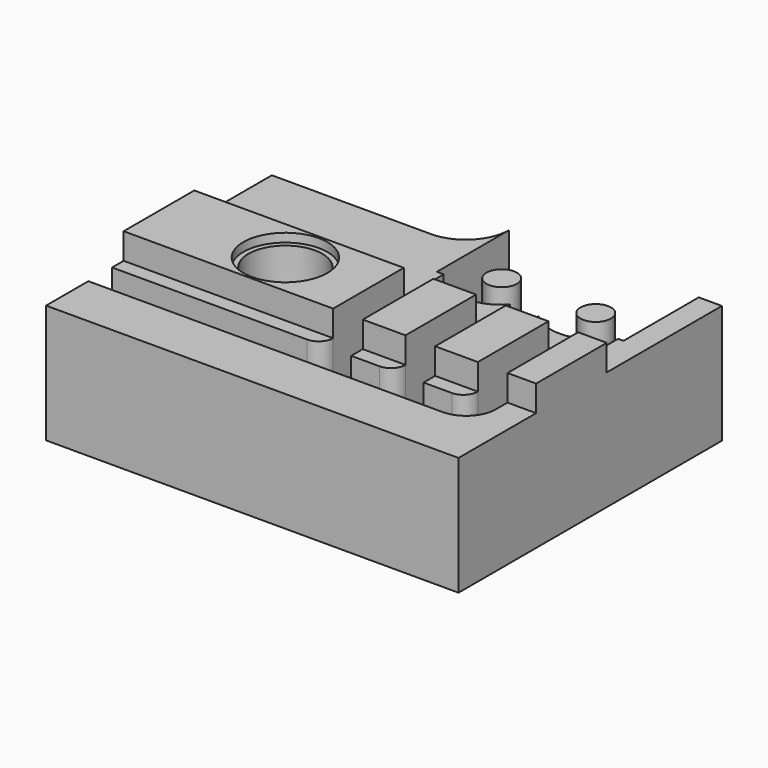
from build123d import *

# Parameters (mm, degrees)
PAD004_DEPTH    = 8.2
SKETCH014_W     = 28.5
SKETCH014_H     = 6.1
PAD005_DEPTH    = 1.8
SKETCH015_R     = 2.9
POCKET004_DEPTH = 0.6
SKETCH016_W     = 2.05
SKETCH016_H     = 6.1
POCKET005_DEPTH = 1.8
SKETCH018_R     = 1.05
POCKET007_DEPTH = 6
POCKET006_DEPTH = 4
SKETCH019_R     = 2.55
POCKET008_DEPTH = 7.5
SKETCH020_R     = 7
POCKET_DEPTH    = 3


with BuildPart() as stage_1_railguide:
    # Sketch013 → Pad004 (new body)
    with BuildSketch(Plane.XY):
        with BuildLine():
            Line((0, 0), (28.5, 0))
            Line((28.5, 0), (28.5, 22.75))
            Line((28.5, 22.75), (14, 22.75))
            Line((14, 22.75), (14, 22.5))
            ThreePointArc((11, 19.5), (13.12132, 20.37868), (14, 22.5))
            Line((11, 19.5), (0, 19.5))
            Line((0, 19.5), (0, 0))
        make_face()
    extrude(amount=PAD004_DEPTH)

    # Sketch014 (on Face9 of Pad004) → Pad005 (join)
    with BuildSketch(Plane.XY.offset(8.2)):
        with Locations((14.25, 9.75)):
            Rectangle(SKETCH014_W, SKETCH014_H)
    extrude(amount=PAD005_DEPTH)

    # Sketch015 (on Face11 of Pad005) → Pocket004 (cut)
    with BuildSketch(Plane.XY.offset(10)):
        with Locations((8.735056, 9.75)):
            Circle(SKETCH015_R)
    extrude(amount=-POCKET004_DEPTH, mode=Mode.SUBTRACT)

    # Sketch016 (on Face10 of Pocket004) → Pocket005 (cut)
    with BuildSketch(Plane.XY.offset(10)):
        with Locations((15.5, 9.75)):
            Rectangle(SKETCH016_W, SKETCH016_H)
        Polygon((21.525, 12.8), (21.525, 6.7), (19.475, 6.7), (19.475, 12.8), (20.5, 12.8), align=None)
        with Locations((25.5, 9.75)):
            Rectangle(SKETCH016_W, SKETCH016_H)
    extrude(amount=-POCKET005_DEPTH, mode=Mode.SUBTRACT)


with BuildPart() as body:
    # Body006 base: copy of Stage#1(RailGuide)
    add(stage_1_railguide.part)

    # Sketch018 (on Face19 of Clone001) → Pocket007 (cut)
    with BuildSketch(Plane.XY.offset(8.2)):
        with BuildLine():
            Line((14, 22.75), (26.9, 22.75))
            Line((26.9, 22.75), (26.9, 16.25))
            Line((26.355184, 16.25), (26.9, 16.25))
            ThreePointArc((21.044816, 16.25), (23.7, 14.75), (26.355184, 16.25))
            Line((20.45, 16.25), (21.044816, 16.25))
            Line((19.855184, 16.25), (20.45, 16.25))
            ThreePointArc((14.544816, 16.25), (17.2, 14.75), (19.855184, 16.25))
            Line((14, 16.25), (14.544816, 16.25))
            Line((14, 16.25), (14, 22.75))
        make_face()
        with Locations((17.2, 17.85)):
            Circle(SKETCH018_R, mode=Mode.SUBTRACT)
        with Locations((23.7, 17.85)):
            Circle(SKETCH018_R, mode=Mode.SUBTRACT)
    extrude(amount=-POCKET007_DEPTH, mode=Mode.SUBTRACT)


with BuildPart() as body008:
    # Body005 base: copy of Stage#1(RailGuide)
    add(stage_1_railguide.part)

    # Sketch017 (on Face19 of Clone) → Pocket006 (cut)
    with BuildSketch(Plane.XY.offset(8.2)):
        with BuildLine():
            Line((0, 5.7), (13.475, 5.7))
            ThreePointArc((13.475, 5.7), (14.182107, 5.992893), (14.475, 6.7))
            Line((14.475, 6.7), (14.475, 16.75))
            Line((14.475, 16.75), (16.525, 16.75))
            Line((16.525, 16.75), (16.525, 5.7))
            Line((16.525, 5.7), (18.475, 5.7))
            ThreePointArc((18.475, 5.7), (19.182107, 5.992893), (19.475, 6.7))
            Line((19.475, 6.7), (19.475, 16.75))
            Line((19.475, 16.75), (21.525, 16.75))
            Line((21.525, 16.75), (21.525, 5.699968))
            Line((21.525, 5.699968), (23.475, 5.699968))
            ThreePointArc((23.475, 5.699968), (24.182107, 5.992862), (24.475, 6.699968))
            Line((24.475, 6.699968), (24.475, 16.75))
            Line((24.475, 16.75), (26.525, 16.75))
            Line((26.525, 16.75), (26.525, 5.7))
            ThreePointArc((24.475, 3.65), (25.924569, 4.250431), (26.525, 5.7))
            Line((24.475, 3.65), (0, 3.65))
            Line((0, 3.65), (0, 5.7))
        make_face()
    extrude(amount=-POCKET006_DEPTH, mode=Mode.SUBTRACT)

    # Sketch019 (on Face37 of Pocket006) → Pocket008 (cut)
    with BuildSketch(Plane.XY.offset(9.4)):
        with Locations((8.735056, 9.75)):
            Circle(SKETCH019_R)
    extrude(amount=-POCKET008_DEPTH, mode=Mode.SUBTRACT)

    # Sketch020 (on Face4 of Pocket008) → Pocket (cut)
    with BuildSketch(Plane(origin=(0, 0, 0), x_dir=(1, 0, 0), z_dir=(0, 0, -1))):
        with Locations((8.735056, -9.75)):
            Circle(SKETCH020_R)
    extrude(amount=-POCKET_DEPTH, mode=Mode.SUBTRACT)

    # Common: intersect Body
    add(body.part, mode=Mode.INTERSECT)


solid = body008.part
